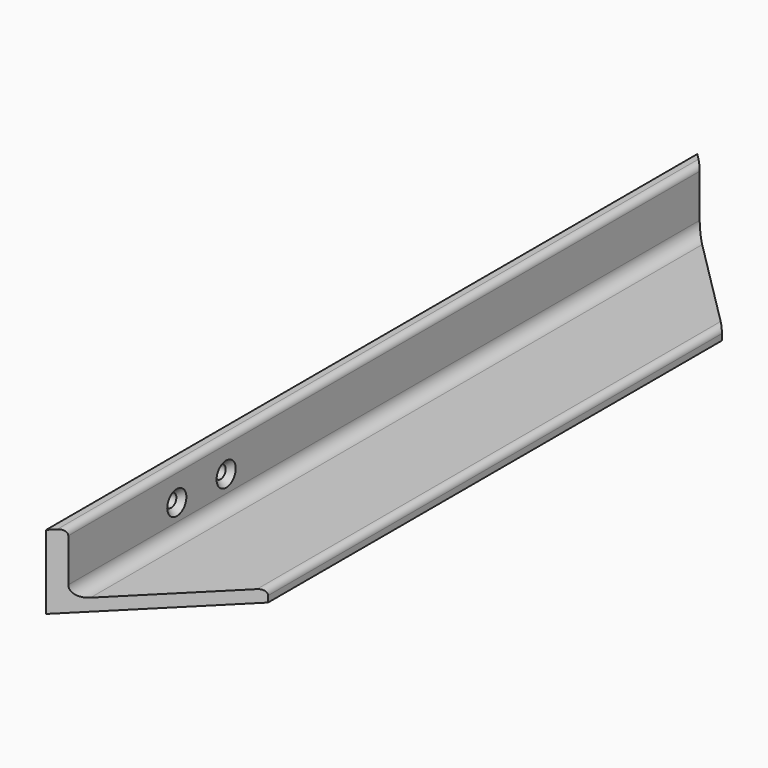
from build123d import *

# Parameters (mm, degrees)
F1_DEPTH = 330
F3_DEPTH = 30.001
F4_R     = 2.6
F5_DEPTH = 50.001
F6_SIZE  = 2.25


with BuildPart() as f1:
    # F0 (on Front) → F1 (new body)
    with BuildSketch(Plane.XZ):
        with BuildLine():
            Line((0, 5), (0, 0))
            Line((0, 0), (5, 0))
            Line((5, 0), (50, 0))
            Line((50, 0), (50, 2.5))
            ThreePointArc((50, 2.5), (49.267766953, 4.267766953), (47.5, 5))
            Line((47.5, 5), (10, 5))
            ThreePointArc((10, 5), (6.4644660941, 6.4644660941), (5, 10))
            Line((5, 10), (5, 27.5))
            ThreePointArc((5, 27.5), (4.267766953, 29.267766953), (2.5, 30))
            Line((2.5, 30), (0, 30))
            Line((0, 30), (0, 5))
        make_face()
    extrude(amount=-F1_DEPTH)

    # F2 (on face) → F3 (cut, through all)
    with BuildSketch(Plane.XY.offset(30)):
        Polygon((2.5, 330), (2.5, 327.5), (72.6712993005, 257.3287006995), (72.6712993005, 330), align=None)
        Polygon((72.6712993005, 72.6712993005), (2.5, 2.5), (2.5, 0), (72.6712993005, 0), align=None)
        Polygon((2.5, 330), (0, 330), (2.5, 327.5), align=None)
        Polygon((2.5, 2.5), (0, 0), (2.5, 0), align=None)
    extrude(amount=-F3_DEPTH, mode=Mode.SUBTRACT)

    # F4 (on face) → F5 (cut, through all)
    with BuildSketch(Plane(origin=(0, 0, 0), x_dir=(0, -1, 0), z_dir=(-1, 0, 0))):
        with Locations((-85, 17)):
            Circle(F4_R)
        with Locations((-60, 17)):
            Circle(F4_R)
    extrude(amount=-F5_DEPTH, mode=Mode.SUBTRACT)

    # F6
    f6_edges = [f1.edges().sort_by_distance(p)[0] for p in [
        (5, 62.6, 17),
        (5, 87.6, 17),
    ]]
    chamfer(f6_edges, length=F6_SIZE)


solid = f1.part
